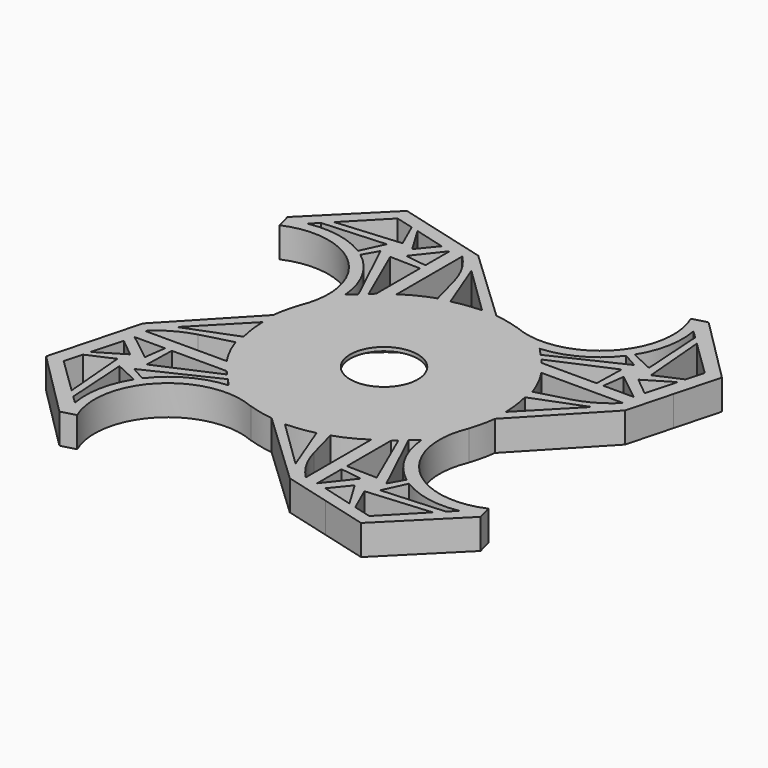
from build123d import *

# Parameters (mm, degrees)
F0_R           = 16.399283469
F1_DEPTH       = 4
F3_W           = 15.3047693893
F3_H           = 15.304771252
F3_W_2         = 15.304768458
F4_DEPTH       = 4
F5_D           = 19.5
F6_D           = 9
F6_CBORE_D     = 22
F6_CBORE_DEPTH = 3.5
F8_DEPTH       = 4.001


with BuildPart() as f1:
    # F0 (on Top) → F1 (new body)
    with BuildSketch(Plane.XY):
        Circle(F0_R)
    extrude(amount=F1_DEPTH)

    # F3 (on Top) → F4 (join)
    with BuildSketch(Plane.XY):
        with BuildLine():
            ThreePointArc((-19.6362166313, 6.381895291), (-14.0342818631, 6.3818949246), (-9.1828638688, 9.1828620061))
            Line((-9.1828638688, 9.1828620061), (-24.4876332581, 9.1828620061))
            ThreePointArc((-24.4876332581, 9.1828620061), (-22.246302031, 7.4630281695), (-19.6362166313, 6.381895291))
        make_face()
        with Locations((-16.8352485634, 16.8352476321)):
            Rectangle(F3_W, F3_H)
        with BuildLine():
            Line((-13.6009707699, 4.7647556427), (-9.1828638688, 9.1828620061))
            ThreePointArc((-9.1828638688, 9.1828620061), (-14.0342818631, 6.3818949246), (-19.6362166313, 6.381895291))
            Line((-19.6362166313, 6.381895291), (-13.6009707699, 4.7647556427))
        make_face()
        Polygon((-4.7647569677, 13.6009683695), (-9.1828638688, 9.1828620061), (-13.6009707699, 4.7647556427), (-13.6009707699, -4.7647556427), (-9.1828638688, -9.1828620061), (-4.7647569677, -13.6009683695), (4.7647560363, -13.6009681007), (9.1828629375, -9.1828620061), (13.6009698386, -4.7647559116), (13.6009698386, 4.7647559116), (9.1828629375, 9.1828620061), (4.7647560363, 13.6009681007), align=None)
        with BuildLine():
            ThreePointArc((-27.2886012692, 14.0342809252), (-26.207468049, 11.4241942043), (-24.4876332581, 9.1828620061))
            Line((-24.4876332581, 9.1828620061), (-24.4876332581, 24.4876332581))
            ThreePointArc((-24.4876332581, 24.4876332581), (-27.2886009182, 19.6362156491), (-27.2886012692, 14.0342809252))
        make_face()
        with BuildLine():
            ThreePointArc((-19.6362166313, 6.381895291), (-22.246302031, 7.4630281695), (-24.4876332581, 9.1828620061))
            ThreePointArc((-24.4876332581, 9.1828620061), (-26.207468049, 11.4241942043), (-27.2886012692, 14.0342809252))
            Line((-27.2886012692, 14.0342809252), (-25.6714623657, 7.9990349053))
            Line((-25.6714623657, 7.9990349053), (-19.6362166313, 6.381895291))
        make_face()
        with BuildLine():
            ThreePointArc((-14.0342803558, 27.2885999358), (-11.4241950332, 26.2074670585), (-9.1828638688, 24.4876332581))
            ThreePointArc((-9.1828638688, 24.4876332581), (-7.4630290902, 22.2463010813), (-6.3818958705, 19.6362143867))
            Line((-6.3818958705, 19.6362143867), (-7.9990347612, 25.6714603589))
            Line((-7.9990347612, 25.6714603589), (-14.0342803558, 27.2885999358))
        make_face()
        with BuildLine():
            Line((-24.4876332581, 24.4876332581), (-9.1828638688, 24.4876332581))
            ThreePointArc((-9.1828638688, 24.4876332581), (-11.4241950332, 26.2074670585), (-14.0342803558, 27.2885999358))
            ThreePointArc((-14.0342803558, 27.2885999358), (-19.6362151939, 27.2886003583), (-24.4876332581, 24.4876332581))
        make_face()
        Polygon((-6.3818958705, 19.6362143867), (-4.7647569677, 13.6009683695), (4.7647560363, 13.6009681007), (-7.9990347612, 25.6714603589), align=None)
        Polygon((-13.6009707699, -4.7647556427), (-13.6009707699, 4.7647556427), (-25.6714623657, -7.9990349053), (-19.6362163995, -6.3818952289), align=None)
        with BuildLine():
            Line((-20.069526357, 28.9057396215), (-24.4876332581, 24.4876332581))
            ThreePointArc((-24.4876332581, 24.4876332581), (-19.6362151939, 27.2886003583), (-14.0342803558, 27.2885999358))
            Line((-14.0342803558, 27.2885999358), (-20.069526357, 28.9057396215))
        make_face()
        with BuildLine():
            ThreePointArc((-27.2886012692, 14.0342809252), (-27.2886009182, 19.6362156491), (-24.4876332581, 24.4876332581))
            Line((-24.4876332581, 24.4876332581), (-28.9057401592, 20.0695268947))
            Line((-28.9057401592, 20.0695268947), (-27.2886012692, 14.0342809252))
        make_face()
        with BuildLine():
            Line((6.3818947404, 19.6362141105), (4.7647560363, 13.6009681007))
            Line((4.7647560363, 13.6009681007), (9.1828629375, 9.1828620061))
            ThreePointArc((9.1828629375, 9.1828620061), (6.3818951916, 14.0342794697), (6.3818947404, 19.6362141105))
        make_face()
        with BuildLine():
            Line((-19.6362163995, -6.3818952289), (-25.6714623657, -7.9990349053))
            Line((-25.6714623657, -7.9990349053), (-27.2886013071, -14.0342810666))
            ThreePointArc((-27.2886013071, -14.0342810666), (-26.2074680856, -11.4241942677), (-24.4876332581, -9.1828620061))
            ThreePointArc((-24.4876332581, -9.1828620061), (-22.2463019271, -7.4630281095), (-19.6362163995, -6.3818952289))
        make_face()
        with Locations((16.8352471665, 16.8352476321)):
            Rectangle(F3_W_2, F3_H)
        with BuildLine():
            ThreePointArc((6.3818947404, 19.6362141105), (6.3818951916, 14.0342794697), (9.1828629375, 9.1828620061))
            Line((9.1828629375, 9.1828620061), (9.1828629375, 24.4876332581))
            ThreePointArc((9.1828629375, 24.4876332581), (7.4630280113, 22.2463009736), (6.3818947404, 19.6362141105))
        make_face()
        with BuildLine():
            Line((7.9990333642, 25.6714598212), (6.3818947404, 19.6362141105))
            ThreePointArc((6.3818947404, 19.6362141105), (7.4630280113, 22.2463009736), (9.1828629375, 24.4876332581))
            ThreePointArc((9.1828629375, 24.4876332581), (11.4241937617, 26.2074667508), (14.0342786387, 27.2885995091))
            Line((14.0342786387, 27.2885995091), (7.9990333642, 25.6714598212))
        make_face()
        with BuildLine():
            ThreePointArc((-24.4876332581, -9.1828620061), (-26.2074680856, -11.4241942677), (-27.2886013071, -14.0342810666))
            ThreePointArc((-27.2886013071, -14.0342810666), (-27.2886008992, -19.6362157198), (-24.4876332581, -24.4876332581))
            Line((-24.4876332581, -24.4876332581), (-24.4876332581, -9.1828620061))
        make_face()
        with BuildLine():
            ThreePointArc((-24.4876332581, -24.4876332581), (-27.2886008992, -19.6362157198), (-27.2886013071, -14.0342810666))
            Line((-27.2886013071, -14.0342810666), (-28.9057401592, -20.0695268947))
            Line((-28.9057401592, -20.0695268947), (-24.4876332581, -24.4876332581))
        make_face()
        with Locations((-16.8352485634, -16.8352476321)):
            Rectangle(F3_W, F3_H)
        with BuildLine():
            ThreePointArc((-6.0131416852, -16.8352476321), (-6.836925646, -12.6938063223), (-9.1828638688, -9.1828620061))
            Line((-9.1828638688, -9.1828620061), (-9.1828638688, -24.4876332581))
            ThreePointArc((-9.1828638688, -24.4876332581), (-7.4630291005, -22.2463010991), (-6.3818958811, -19.6362144264))
            ThreePointArc((-6.3818958811, -19.6362144264), (-6.105726271, -18.2478157402), (-6.0131416852, -16.8352476321))
        make_face()
        with BuildLine():
            Line((-4.7647569677, -13.6009683695), (-9.1828638688, -9.1828620061))
            ThreePointArc((-9.1828638688, -9.1828620061), (-6.836925646, -12.6938063223), (-6.0131416852, -16.8352476321))
            ThreePointArc((-6.0131416852, -16.8352476321), (-6.105726271, -18.2478157402), (-6.3818958811, -19.6362144264))
            Line((-6.3818958811, -19.6362144264), (-4.7647569677, -13.6009683695))
        make_face()
        with BuildLine():
            ThreePointArc((27.2885996773, 14.0342814699), (26.2074664034, 11.4241944323), (24.4876313955, 9.1828620061))
            ThreePointArc((24.4876313955, 9.1828620061), (22.2463003661, 7.463028395), (19.6362152367, 6.3818956326))
            Line((19.6362152367, 6.3818956326), (25.6714609687, 7.999035443))
            Line((25.6714609687, 7.999035443), (27.2885996773, 14.0342814699))
        make_face()
        with BuildLine():
            Line((24.4876313955, 24.4876332581), (24.4876313955, 9.1828620061))
            ThreePointArc((24.4876313955, 9.1828620061), (26.2074664034, 11.4241944323), (27.2885996773, 14.0342814699))
            ThreePointArc((27.2885996773, 14.0342814699), (27.5647691694, 15.4226798477), (27.6573537154, 16.8352476321))
            ThreePointArc((27.6573537154, 16.8352476321), (26.8335697167, 20.976688968), (24.4876313955, 24.4876332581))
        make_face()
        with BuildLine():
            ThreePointArc((14.0342786387, 27.2885995091), (11.4241937617, 26.2074667508), (9.1828629375, 24.4876332581))
            Line((9.1828629375, 24.4876332581), (24.4876313955, 24.4876332581))
            ThreePointArc((24.4876313955, 24.4876332581), (19.63621335, 27.2886001372), (14.0342786387, 27.2885995091))
        make_face()
        Polygon((25.6714609687, 7.999035443), (19.6362152367, 6.3818956326), (13.6009698386, 4.7647559116), (13.6009698386, -4.7647559116), align=None)
        with BuildLine():
            Line((-9.1828638688, -24.4876332581), (-24.4876332581, -24.4876332581))
            ThreePointArc((-24.4876332581, -24.4876332581), (-19.6362150795, -27.288600389), (-14.0342801271, -27.2885998745))
            ThreePointArc((-14.0342801271, -27.2885998745), (-11.4241949306, -26.2074669993), (-9.1828638688, -24.4876332581))
        make_face()
        with BuildLine():
            ThreePointArc((-14.0342801271, -27.2885998745), (-19.6362150795, -27.288600389), (-24.4876332581, -24.4876332581))
            Line((-24.4876332581, -24.4876332581), (-20.069526357, -28.9057396215))
            Line((-20.069526357, -28.9057396215), (-14.0342801271, -27.2885998745))
        make_face()
        with BuildLine():
            ThreePointArc((-6.3818958811, -19.6362144264), (-7.4630291005, -22.2463010991), (-9.1828638688, -24.4876332581))
            ThreePointArc((-9.1828638688, -24.4876332581), (-11.4241949306, -26.2074669993), (-14.0342801271, -27.2885998745))
            Line((-14.0342801271, -27.2885998745), (-7.9990347612, -25.6714603589))
            Line((-7.9990347612, -25.6714603589), (-6.3818958811, -19.6362144264))
        make_face()
        Polygon((4.7647560363, -13.6009681007), (-4.7647569677, -13.6009683695), (7.9990333642, -25.6714598212), (6.3818946935, -19.6362139358), align=None)
        with BuildLine():
            Line((28.9057382966, 20.0695271635), (24.4876313955, 24.4876332581))
            ThreePointArc((24.4876313955, 24.4876332581), (26.8335697167, 20.976688968), (27.6573537154, 16.8352476321))
            ThreePointArc((27.6573537154, 16.8352476321), (27.5647691694, 15.4226798477), (27.2885996773, 14.0342814699))
            Line((27.2885996773, 14.0342814699), (28.9057382966, 20.0695271635))
        make_face()
        with BuildLine():
            ThreePointArc((14.0342786387, 27.2885995091), (19.63621335, 27.2886001372), (24.4876313955, 24.4876332581))
            Line((24.4876313955, 24.4876332581), (20.0695244944, 28.9057393527))
            Line((20.0695244944, 28.9057393527), (14.0342786387, 27.2885995091))
        make_face()
        with BuildLine():
            Line((19.6362152367, -6.3818956326), (13.6009698386, -4.7647559116))
            Line((13.6009698386, -4.7647559116), (9.1828629375, -9.1828620061))
            ThreePointArc((9.1828629375, -9.1828620061), (14.0342807542, -6.3818951883), (19.6362152367, -6.3818956326))
        make_face()
        with BuildLine():
            Line((6.3818946935, -19.6362139358), (7.9990333642, -25.6714598212))
            Line((7.9990333642, -25.6714598212), (14.0342790962, -27.2885996317))
            ThreePointArc((14.0342790962, -27.2885996317), (11.4241939668, -26.2074668692), (9.1828629375, -24.4876332581))
            ThreePointArc((9.1828629375, -24.4876332581), (7.4630279661, -22.2463008953), (6.3818946935, -19.6362139358))
        make_face()
        with BuildLine():
            ThreePointArc((19.6362152367, -6.3818956326), (14.0342807542, -6.3818951883), (9.1828629375, -9.1828620061))
            Line((9.1828629375, -9.1828620061), (24.4876313955, -9.1828620061))
            ThreePointArc((24.4876313955, -9.1828620061), (22.2463003661, -7.463028395), (19.6362152367, -6.3818956326))
        make_face()
        with Locations((16.8352471665, -16.8352476321)):
            Rectangle(F3_W_2, F3_H)
        with BuildLine():
            Line((25.6714609687, -7.999035443), (19.6362152367, -6.3818956326))
            ThreePointArc((19.6362152367, -6.3818956326), (22.2463003661, -7.463028395), (24.4876313955, -9.1828620061))
            ThreePointArc((24.4876313955, -9.1828620061), (26.2074664034, -11.4241944323), (27.2885996773, -14.0342814699))
            Line((27.2885996773, -14.0342814699), (25.6714609687, -7.999035443))
        make_face()
        with BuildLine():
            ThreePointArc((9.1828629375, -24.4876332581), (11.4241939668, -26.2074668692), (14.0342790962, -27.2885996317))
            ThreePointArc((14.0342790962, -27.2885996317), (19.6362135788, -27.2886000759), (24.4876313955, -24.4876332581))
            Line((24.4876313955, -24.4876332581), (9.1828629375, -24.4876332581))
        make_face()
        with BuildLine():
            ThreePointArc((24.4876313955, -24.4876332581), (19.6362135788, -27.2886000759), (14.0342790962, -27.2885996317))
            Line((14.0342790962, -27.2885996317), (20.0695244944, -28.9057393527))
            Line((20.0695244944, -28.9057393527), (24.4876313955, -24.4876332581))
        make_face()
        with BuildLine():
            ThreePointArc((27.2885996773, -14.0342814699), (26.2074664034, -11.4241944323), (24.4876313955, -9.1828620061))
            Line((24.4876313955, -9.1828620061), (24.4876313955, -24.4876332581))
            ThreePointArc((24.4876313955, -24.4876332581), (26.8335697167, -20.976688968), (27.6573537154, -16.8352476321))
            ThreePointArc((27.6573537154, -16.8352476321), (27.5647691694, -15.4226798477), (27.2885996773, -14.0342814699))
        make_face()
        with BuildLine():
            ThreePointArc((27.6573537154, -16.8352476321), (26.8335697167, -20.976688968), (24.4876313955, -24.4876332581))
            Line((24.4876313955, -24.4876332581), (28.9057382966, -20.0695271635))
            Line((28.9057382966, -20.0695271635), (27.2885996773, -14.0342814699))
            ThreePointArc((27.2885996773, -14.0342814699), (27.5647691694, -15.4226798477), (27.6573537154, -16.8352476321))
        make_face()
    extrude(amount=F4_DEPTH)

    # F5 (through all)
    with Locations(Plane(origin=(0, 0, 0), x_dir=(1, 0, 0), z_dir=(0, 0, -1))):
        with Locations((-24.4876332581, -9.1828620061), (9.1828629375, -24.4876332581), (24.4876313955, 9.1828620061), (-9.1828638688, 24.4876332581)):
            Hole(F5_D / 2)

    # F6 (through all)
    with Locations(Plane(origin=(0, 0, 0), x_dir=(1, 0, 0), z_dir=(0, 0, -1))):
        with Locations((0, 0)):
            CounterBoreHole(F6_D / 2, F6_CBORE_D / 2, F6_CBORE_DEPTH)

    # F7 (on Top) → F8 (cut, through all)
    with BuildSketch(Plane.XY):
        Polygon((11.5123097439, -12.0014349417), (10.9312273562, -12.5328218564), (10.9312273562, -19.8281024684), (14.968722107, -19.9280130138), align=None)
        Polygon((12.287223826, -25.1323089496), (16.3936915258, -26.2429611564), (14.2729808678, -22.7072010552), align=None)
        Polygon((19.7606716386, -27.1536084976), (24.4011133909, -22.3856382072), (15.8775458316, -23.1088874469), (17.3781731543, -26.5092281219), align=None)
        with BuildLine():
            ThreePointArc((26.3470207068, -20.3862535009), (22.2495869645, -20.3775414684), (18.437449082, -18.8753284552))
            Line((18.437449082, -18.8753284552), (17.0276989331, -21.9201366221))
            Line((17.0276989331, -21.9201366221), (25.3664037597, -21.3938197456))
            Line((25.3664037597, -21.3938197456), (26.3470207068, -20.3862535009))
        make_face()
        with BuildLine():
            Line((13.3105022833, -10.3570278734), (12.287223826, -11.2927932551))
            Line((12.287223826, -11.2927932551), (16.5732870708, -20.3296994056))
            Line((16.5732870708, -20.3296994056), (17.6828293931, -18.3551617572))
            ThreePointArc((17.6828293931, -18.3551617572), (14.6328234475, -14.828330159), (13.3105022833, -10.3570278734))
        make_face()
        Polygon((13.8185690055, -21.1167638386), (10.9312273562, -20.7267403603), (10.9312273562, -24.7766375542), align=None)
        with BuildLine():
            Line((0, -16.4857320487), (6.4256140031, -22.7467752993))
            Line((6.4256140031, -22.7467752993), (3.8091344759, -15.9799829125))
            ThreePointArc((3.8091344759, -15.9799829125), (1.9192561742, -16.3434896684), (0, -16.4857320487))
        make_face()
        Polygon((11.7157033132, 11.5123097439), (12.2470902279, 10.9312273562), (19.5423708399, 10.9312273562), (19.6422813853, 14.968722107), align=None)
        Polygon((24.8465773211, 12.287223826), (25.9572295279, 16.3936915258), (22.4214694266, 14.2729808678), align=None)
        Polygon((26.867876869, 19.7606716386), (22.0999065787, 24.4011133909), (22.8231558183, 15.8775458316), (26.2234964933, 17.3781731543), align=None)
        with BuildLine():
            ThreePointArc((20.1005218724, 26.3470207068), (20.0918098398, 22.2495869645), (18.5895968266, 18.437449082))
            Line((18.5895968266, 18.437449082), (21.6344049935, 17.0276989331))
            Line((21.6344049935, 17.0276989331), (21.108088117, 25.3664037597))
            Line((21.108088117, 25.3664037597), (20.1005218724, 26.3470207068))
        make_face()
        with BuildLine():
            Line((10.0712962449, 13.3105022833), (11.0070616266, 12.287223826))
            Line((11.0070616266, 12.287223826), (20.043967777, 16.5732870708))
            Line((20.043967777, 16.5732870708), (18.0694301287, 17.6828293931))
            ThreePointArc((18.0694301287, 17.6828293931), (14.5425985305, 14.6328234475), (10.0712962449, 13.3105022833))
        make_face()
        Polygon((20.8310322101, 13.8185690055), (20.4410087317, 10.9312273562), (24.4909059256, 10.9312273562), align=None)
        with BuildLine():
            Line((16.2000004202, 0), (22.4610436708, 6.4256140031))
            Line((22.4610436708, 6.4256140031), (15.694251284, 3.8091344759))
            ThreePointArc((15.694251284, 3.8091344759), (16.0577580399, 1.9192561742), (16.2000004202, 0))
        make_face()
        Polygon((-11.5123097439, 11.8228575633), (-10.9312273562, 12.354244478), (-10.9312273562, 19.6495250901), (-14.968722107, 19.7494356354), align=None)
        Polygon((-12.287223826, 24.9537315712), (-16.3936915258, 26.064383778), (-14.2729808678, 22.5286236768), align=None)
        Polygon((-19.7606716386, 26.9750311192), (-24.4011133909, 22.2070608288), (-15.8775458316, 22.9303100685), (-17.3781731543, 26.3306507435), align=None)
        with BuildLine():
            ThreePointArc((-26.3470207068, 20.2076761225), (-22.2495869645, 20.19896409), (-18.437449082, 18.6967510768))
            Line((-18.437449082, 18.6967510768), (-17.0276989331, 21.7415592437))
            Line((-17.0276989331, 21.7415592437), (-25.3664037597, 21.2152423672))
            Line((-25.3664037597, 21.2152423672), (-26.3470207068, 20.2076761225))
        make_face()
        with BuildLine():
            Line((-13.3105022833, 10.178450495), (-12.287223826, 11.1142158767))
            Line((-12.287223826, 11.1142158767), (-16.5732870708, 20.1511220272))
            Line((-16.5732870708, 20.1511220272), (-17.6828293931, 18.1765843788))
            ThreePointArc((-17.6828293931, 18.1765843788), (-14.6328234475, 14.6497527806), (-13.3105022833, 10.178450495))
        make_face()
        Polygon((-13.8185690055, 20.9381864603), (-10.9312273562, 20.5481629819), (-10.9312273562, 24.5980601758), align=None)
        with BuildLine():
            Line((0, 16.3071546704), (-6.4256140031, 22.5681979209))
            Line((-6.4256140031, 22.5681979209), (-3.8091344759, 15.8014055341))
            ThreePointArc((-3.8091344759, 15.8014055341), (-1.9192561742, 16.16491229), (0, 16.3071546704))
        make_face()
        Polygon((-11.6595799522, -11.5123097439), (-12.1909668669, -10.9312273562), (-19.4862474789, -10.9312273562), (-19.5861580243, -14.968722107), align=None)
        Polygon((-24.7904539601, -12.287223826), (-25.9011061669, -16.3936915258), (-22.3653460656, -14.2729808678), align=None)
        Polygon((-26.8117535081, -19.7606716386), (-22.0437832177, -24.4011133909), (-22.7670324574, -15.8775458316), (-26.1673731323, -17.3781731543), align=None)
        with BuildLine():
            ThreePointArc((-20.0443985114, -26.3470207068), (-20.0356864788, -22.2495869645), (-18.5334734656, -18.437449082))
            Line((-18.5334734656, -18.437449082), (-21.5782816325, -17.0276989331))
            Line((-21.5782816325, -17.0276989331), (-21.051964756, -25.3664037597))
            Line((-21.051964756, -25.3664037597), (-20.0443985114, -26.3470207068))
        make_face()
        with BuildLine():
            Line((-10.0151728839, -13.3105022833), (-10.9509382656, -12.287223826))
            Line((-10.9509382656, -12.287223826), (-19.987844416, -16.5732870708))
            Line((-19.987844416, -16.5732870708), (-18.0133067677, -17.6828293931))
            ThreePointArc((-18.0133067677, -17.6828293931), (-14.4864751695, -14.6328234475), (-10.0151728839, -13.3105022833))
        make_face()
        Polygon((-20.7749088491, -13.8185690055), (-20.3848853707, -10.9312273562), (-24.4347825646, -10.9312273562), align=None)
        with BuildLine():
            Line((-16.1438770592, 0), (-22.4049203098, -6.4256140031))
            Line((-22.4049203098, -6.4256140031), (-15.638127923, -3.8091344759))
            ThreePointArc((-15.638127923, -3.8091344759), (-16.0016346789, -1.9192561742), (-16.1438770592, 0))
        make_face()
    extrude(amount=F8_DEPTH, mode=Mode.SUBTRACT)


with BuildPart() as f9_1:
    # F9: copy of F1
    add(f1.part.moved(Location((0, 0, 4))))


solid = f1.part
